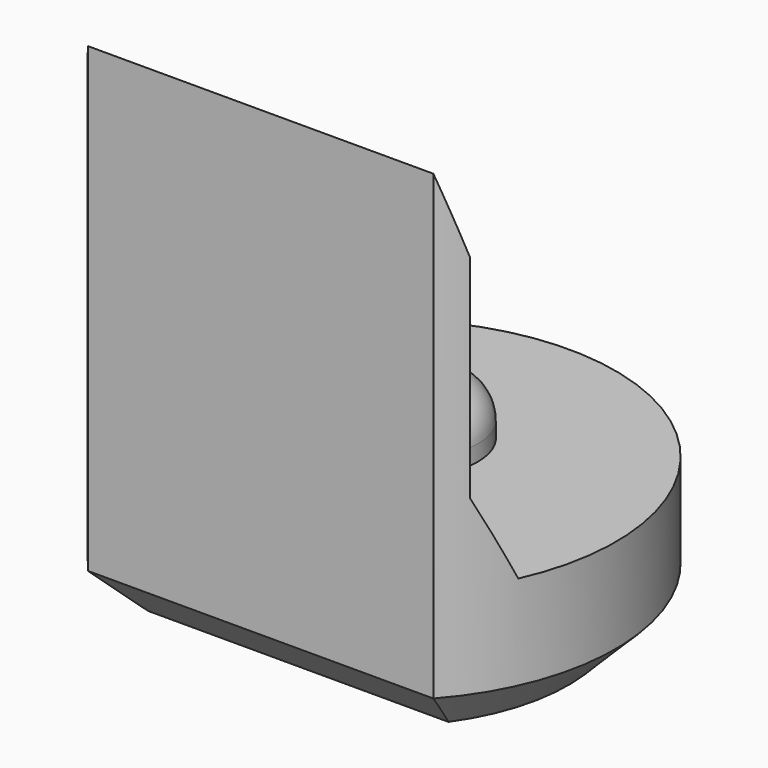
from build123d import *

# Parameters (mm, degrees)
PAD003_DEPTH         = 6.5
POCKET004_DEPTH      = 2.951
POCKET004_DEPTH_BACK = 2.951
SKETCH013_R          = 0.8
PAD006_DEPTH         = 0.7
FILLET_R             = 0.5
CHAMFER004_SIZE      = 0.6


with BuildPart() as part:
    # Sketch004 → Pad003 (new body)
    with BuildSketch(Plane.XY):
        with BuildLine():
            ThreePointArc((2.2, -1.9653244007), (0, 2.95), (-2.2, -1.9653244007))
            Line((-2.2, -1.9653244007), (2.2, -1.9653244007))
        make_face()
    extrude(amount=PAD003_DEPTH)

    # Sketch014 → Pocket004 (cut, two sides)
    with BuildSketch(Plane.YZ) as pocket004_sk:
        Polygon((-1.97, 6.5), (-1.67, 5.5), (-1.67, 2.8), (-1.22, 1.8), (4, 1.8), (4, 6.5), align=None)
    extrude(amount=-POCKET004_DEPTH, mode=Mode.SUBTRACT)
    extrude(pocket004_sk.sketch, amount=POCKET004_DEPTH_BACK, mode=Mode.SUBTRACT)

    # Sketch013 (on Face7 of Pocket004) → Pad006 (join)
    with BuildSketch(Plane.XY.offset(1.8)):
        with Locations((0, 0.5)):
            Circle(SKETCH013_R)
    extrude(amount=PAD006_DEPTH)

    # Fillet
    fillet_edges = [part.edges().sort_by_distance(p)[0] for p in [
        (-0.8, 0.5, 2.5),
    ]]
    fillet(fillet_edges, radius=FILLET_R)

    # Chamfer004
    chamfer004_edges = [part.edges().sort_by_distance(p)[0] for p in [
        (0, 2.95, 0),
        (0, -1.965324, 0),
    ]]
    chamfer(chamfer004_edges, length=CHAMFER004_SIZE)


with BuildPart() as part_1:
    # Body029 placement: moved
    add(part.part.moved(Location((0, 60, 0))))


solid = part_1.part
